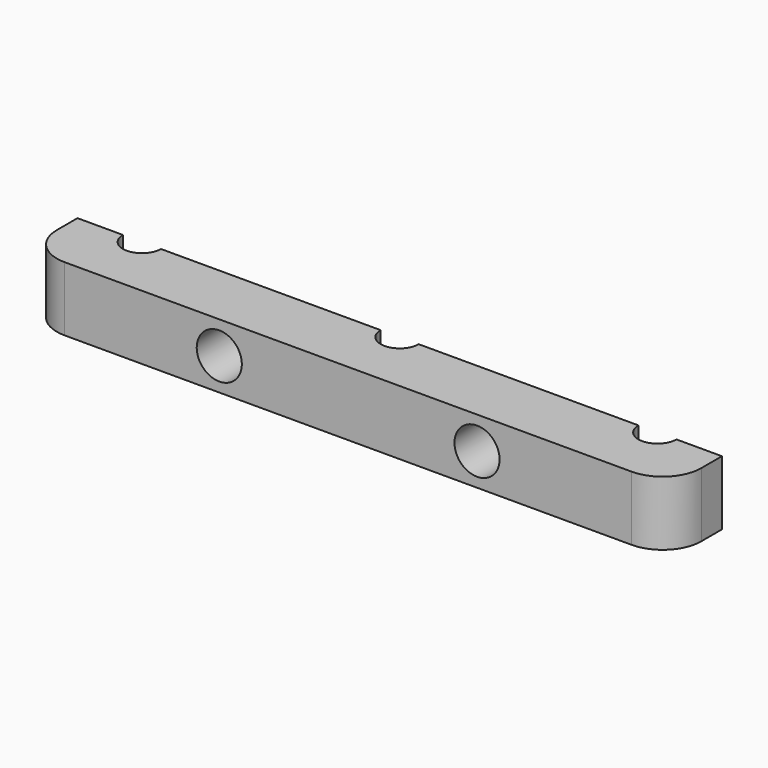
from build123d import *

# Parameters (mm, degrees)
F0_W     = 50
F0_H     = 5
F1_DEPTH = 5
F2_D     = 3.5
F3_R     = 3
F5_D     = 2.95


with BuildPart() as f1:
    # F0 (on Front) → F1 (new body)
    with BuildSketch(Plane.XZ):
        Rectangle(F0_W, F0_H)
    extrude(amount=-F1_DEPTH)

    # F2 (through all)
    with Locations(Plane.XZ):
        with Locations((-10, 0), (10, 0)):
            Hole(F2_D / 2)

    # F3
    f3_edges = [f1.edges().sort_by_distance(p)[0] for p in [
        (-25, 0, 0),
        (25, 0, 0),
    ]]
    fillet(f3_edges, radius=F3_R)

    # F5 (through all)
    with Locations(Plane.XY.offset(2.5)):
        with Locations((-20, 5), (0, 5), (20, 5)):
            Hole(F5_D / 2)


solid = f1.part
